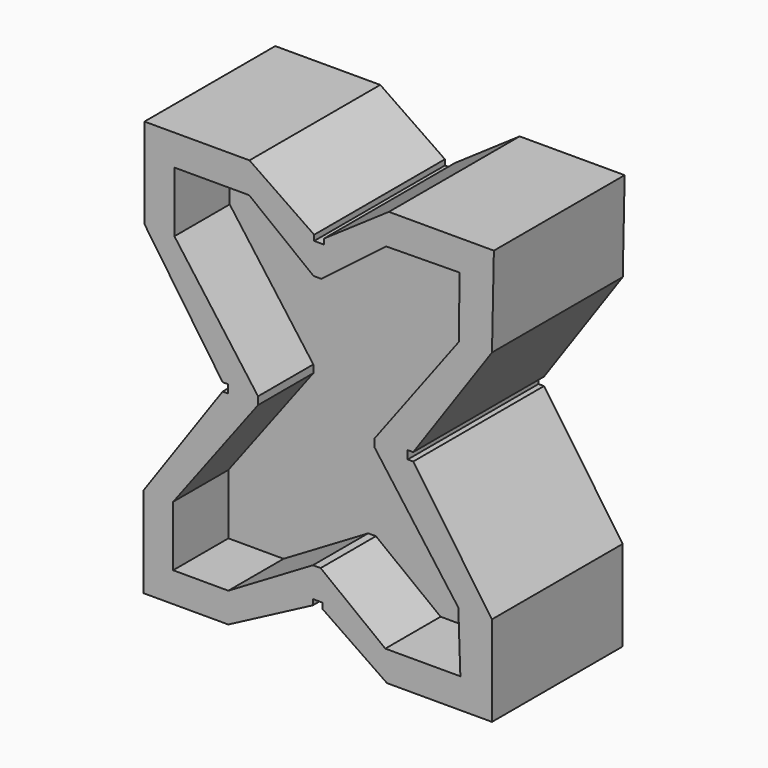
from build123d import *

# Parameters (mm, degrees)
F1_DEPTH = 90.1446
F4_DEPTH = 38.1
F7_DEPTH = 38.1


with BuildPart() as f1:
    # F0 (on Front) → F1 (new body)
    with BuildSketch(Plane.XZ):
        Polygon((-11.1971926081, 65.7086565368), (-69.1091926081, 65.7086565368), (-69.1091926081, 15.8992565368), (-26.0065842281, -46.8154278155), (-22.9906474179, -46.8154278155), (-22.9906474179, -51.3447030535), (-26.0065842281, -51.3447030535), (-69.729202812, -113.6287227273), (-69.729202812, -163.4422105699), (-22.8745764246, -163.4422105699), (23.7734285709, -138.940374625), (23.7734285709, -135.9147534492), (28.9550285709, -135.9147534492), (28.9550285709, -138.9272423858), (64.6245286164, -163.4422105699), (122.5365286164, -163.4422105699), (122.5365286164, -113.6328105699), (79.1036308243, -51.1464130746), (76.0683308243, -51.1464130746), (76.0683308243, -46.5761250044), (79.1036308243, -46.5761250044), (122.5365286164, 15.9102724908), (123.5840374592, 65.7086565368), (65.6720374592, 65.7086565368), (30.0025374137, 41.1936883527), (30.0025374137, 38.175295005), (24.4723074374, 38.175295005), (24.4723074374, 41.1936883527), align=None)
    extrude(amount=-F1_DEPTH)

    # F3 (on offset) → F4 (cut)
    with BuildSketch(Plane.XZ):
        Polygon((-6.4795594404, -51.5769487249), (-53.295402812, -113.7468837801), (-53.295402812, -146.9806581736), (-22.8745764246, -147.0209074169), (23.7734285709, -119.4822192192), (28.0406285709, -119.4822192192), (63.7101286164, -146.9806581736), (105.0975570712, -146.9717806065), (103.9679117275, -113.9575218417), (57.8230765612, -51.2830203653), (57.6468469615, -47.0311700371), (104.3438033673, 15.2281126267), (104.5963698348, 48.9120816117), (64.1748463129, 48.43781649), (28.3937643672, 21.0621996767), (24.126596129, 21.0786637873), (-11.4306816807, 48.7568000231), (-52.5953805913, 48.7568000231), (-52.5953805913, 15.3812000231), (-6.4795594404, -47.3097487249), align=None)
    extrude(amount=-F4_DEPTH, mode=Mode.SUBTRACT)

    # F6 (on offset) → F7 (cut)
    with BuildSketch(Plane(origin=(0, 90.1446, 0), x_dir=(-1, 0, 0), z_dir=(0, 1, 0))):
        Polygon((-58.6403822024, -52.5351678955), (-105.456225574, -114.7051029507), (-105.456225574, -147.9388773441), (-75.0353991867, -147.9791265874), (-28.3873941911, -120.4404383898), (-24.1201941911, -120.4404383898), (11.5493058543, -147.9388773441), (52.9367343092, -147.9299997771), (51.8070889654, -114.9157410123), (5.6622537992, -52.2412395359), (5.4860241995, -47.9893892076), (52.1829806052, 14.2698934561), (52.4355470727, 47.9538624411), (12.0140235509, 47.4795973194), (-23.7670583948, 20.1039805062), (-28.034226633, 20.1204446167), (-63.5915044428, 47.7985808526), (-104.7562033534, 47.7985808526), (-104.7562033534, 14.4229808526), (-58.6403822024, -48.2679678955), align=None)
    extrude(amount=-F7_DEPTH, mode=Mode.SUBTRACT)


solid = f1.part
